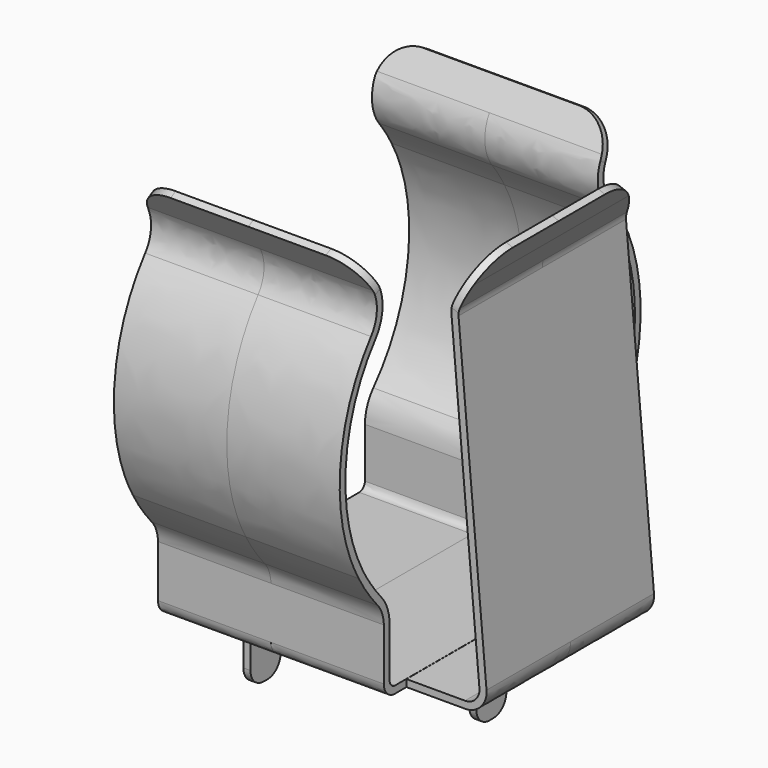
from build123d import *

# Parameters (mm, degrees)
PAD_DEPTH            = 4.8
FILLET_R             = 1.5
SKETCH002_W          = 1.6
SKETCH002_H          = 0.3
PAD001_DEPTH         = 3
PAD002_DEPTH         = 4.45
FILLET001_R          = 0.7
FILLET002_R          = 2
BODY_PLACEMENT_ANGLE = 90


with BuildPart() as part:
    # Sketch001 → Pad (new body, symmetric)
    with BuildSketch(Plane.XZ):
        with BuildLine():
            add(Edge.make_bspline(
                [(-6.09158, 13.6975), (-8.13123, 11.1514), (-8.2306, 7.29343), (-6.34886, 4.63303)],
                knots=[0, 0, 0, 0, 1, 1, 1, 1], degree=3))
            add(Edge.make_bspline(
                [(-6.09158, 13.6975), (-5.64917, 14.2679), (-5.59151, 15.0812), (-5.96089, 15.7037)],
                knots=[0, 0, 0, 0, 1, 1, 1, 1], degree=3))
            add(Edge.make_bspline(
                [(-5.96089, 15.7037), (-6.17001, 16.0675), (-6.37913, 16.4313), (-6.58825, 16.7951)],
                knots=[0, 0, 0, 0, 1, 1, 1, 1], degree=3))
            add(Edge.make_bspline(
                [(-6.58825, 16.7951), (-6.67539, 16.745), (-6.76252, 16.6949), (-6.84965, 16.6448)],
                knots=[0, 0, 0, 0, 1, 1, 1, 1], degree=3))
            add(Edge.make_bspline(
                [(-6.84965, 16.6448), (-6.63835, 16.281), (-6.42705, 15.9172), (-6.21575, 15.5534)],
                knots=[0, 0, 0, 0, 1, 1, 1, 1], degree=3))
            add(Edge.make_bspline(
                [(-6.33338, 13.887), (-5.95887, 14.3555), (-5.9205, 15.035), (-6.21575, 15.5534)],
                knots=[0, 0, 0, 0, 1, 1, 1, 1], degree=3))
            add(Edge.make_bspline(
                [(-6.33338, 13.887), (-8.27016, 11.4263), (-8.54971, 7.81445), (-6.98642, 5.09652)],
                knots=[0, 0, 0, 0, 1, 1, 1, 1], degree=3))
            add(Edge.make_bspline(
                [(-6.98642, 5.09652), (-6.70676, 4.5864), (-6.35671, 4.12124), (-5.98048, 3.67924)],
                knots=[0, 0, 0, 0, 1, 1, 1, 1], degree=3))
            add(Edge.make_bspline(
                [(-5.6472, 2.81007), (-5.66286, 3.12607), (-5.76509, 3.4421), (-5.98048, 3.67924)],
                knots=[0, 0, 0, 0, 1, 1, 1, 1], degree=3))
            add(Edge.make_bspline(
                [(-5.6472, 0.60123), (-5.6472, 1.33751), (-5.6472, 2.07379), (-5.6472, 2.81007)],
                knots=[0, 0, 0, 0, 1, 1, 1, 1], degree=3))
            add(Edge.make_bspline(
                [(-5.6472, 0.60123), (-5.65989, 0.27566), (-5.37633, -0.002662), (-5.05255, -3e-05)],
                knots=[0, 0, 0, 0, 1, 1, 1, 1], degree=3))
            add(Edge.make_bspline(
                [(-5.05255, -3e-05), (-3.66054, 0), (-2.26858, 0), (-0.87661, 0)],
                knots=[0, 0, 0, 0, 1, 1, 1, 1], degree=3))
            add(Edge.make_bspline(
                [(-0.87661, 0), (1.09915, 0), (3.07492, 0), (5.05068, 0)],
                knots=[0, 0, 0, 0, 1, 1, 1, 1], degree=3))
            add(Edge.make_bspline(
                [(5.05068, 0), (5.37898, 0.000521), (5.65118, 0.271974), (5.6519, 0.60126)],
                knots=[0, 0, 0, 0, 1, 1, 1, 1], degree=3))
            add(Edge.make_bspline(
                [(5.6519, 0.60126), (5.65191, 1.33751), (5.65191, 2.07379), (5.6519, 2.81007)],
                knots=[0, 0, 0, 0, 1, 1, 1, 1], degree=3))
            add(Edge.make_bspline(
                [(5.97865, 3.67924), (5.76643, 3.44236), (5.65459, 3.12669), (5.6519, 2.81007)],
                knots=[0, 0, 0, 0, 1, 1, 1, 1], degree=3))
            add(Edge.make_bspline(
                [(5.97865, 3.67924), (8.20449, 6.11255), (8.64287, 9.95798), (7.02064, 12.8297)],
                knots=[0, 0, 0, 0, 1, 1, 1, 1], degree=3))
            add(Edge.make_bspline(
                [(7.02064, 12.8297), (6.82246, 13.2022), (6.58331, 13.5493), (6.33155, 13.887)],
                knots=[0, 0, 0, 0, 1, 1, 1, 1], degree=3))
            add(Edge.make_bspline(
                [(6.22045, 15.5534), (5.91365, 15.0404), (5.96147, 14.3557), (6.33155, 13.887)],
                knots=[0, 0, 0, 0, 1, 1, 1, 1], degree=3))
            add(Edge.make_bspline(
                [(6.84782, 16.6448), (6.63869, 16.281), (6.42957, 15.9172), (6.22045, 15.5534)],
                knots=[0, 0, 0, 0, 1, 1, 1, 1], degree=3))
            add(Edge.make_bspline(
                [(6.59295, 16.7951), (6.6779, 16.745), (6.76286, 16.6949), (6.84782, 16.6448)],
                knots=[0, 0, 0, 0, 1, 1, 1, 1], degree=3))
            add(Edge.make_bspline(
                [(5.95905, 15.7037), (6.17035, 16.0675), (6.38165, 16.4313), (6.59295, 16.7951)],
                knots=[0, 0, 0, 0, 1, 1, 1, 1], degree=3))
            add(Edge.make_bspline(
                [(5.95905, 15.7037), (5.58849, 15.0863), (5.65793, 14.2664), (6.08975, 13.6975)],
                knots=[0, 0, 0, 0, 1, 1, 1, 1], degree=3))
            add(Edge.make_bspline(
                [(6.75901, 12.6796), (6.56783, 13.0394), (6.33665, 13.3742), (6.08975, 13.6975)],
                knots=[0, 0, 0, 0, 1, 1, 1, 1], degree=3))
            add(Edge.make_bspline(
                [(5.78914, 3.9145), (7.89948, 6.25846), (8.30928, 9.93114), (6.75901, 12.6796)],
                knots=[0, 0, 0, 0, 1, 1, 1, 1], degree=3))
            add(Edge.make_bspline(
                [(5.78914, 3.9145), (5.50678, 3.58738), (5.34949, 3.1634), (5.34475, 2.73165)],
                knots=[0, 0, 0, 0, 1, 1, 1, 1], degree=3))
            add(Edge.make_bspline(
                [(5.34475, 0.60175), (5.34476, 1.31137), (5.34476, 2.02151), (5.34475, 2.73165)],
                knots=[0, 0, 0, 0, 1, 1, 1, 1], degree=3))
            add(Edge.make_bspline(
                [(5.04414, 0.30715), (5.20535, 0.301179), (5.33817, 0.445247), (5.34475, 0.60175)],
                knots=[0, 0, 0, 0, 1, 1, 1, 1], degree=3))
            add(Edge.make_bspline(
                [(-5.04597, 0.30663), (-1.6826, 0.30715), (1.68077, 0.30715), (5.04414, 0.30715)],
                knots=[0, 0, 0, 0, 1, 1, 1, 1], degree=3))
            add(Edge.make_bspline(
                [(-5.34659, 0.60123), (-5.33368, 0.447888), (-5.20904, 0.298696), (-5.04597, 0.30663)],
                knots=[0, 0, 0, 0, 1, 1, 1, 1], degree=3))
            add(Edge.make_bspline(
                [(-5.34659, 0.60123), (-5.34659, 1.31137), (-5.34659, 2.02151), (-5.34659, 2.73165)],
                knots=[0, 0, 0, 0, 1, 1, 1, 1], degree=3))
            add(Edge.make_bspline(
                [(-5.34659, 2.73165), (-5.34959, 3.1662), (-5.50536, 3.58615), (-5.79097, 3.9145)],
                knots=[0, 0, 0, 0, 1, 1, 1, 1], degree=3))
            add(Edge.make_bspline(
                [(-6.34886, 4.63303), (-6.18103, 4.37957), (-5.98482, 4.14789), (-5.79097, 3.9145)],
                knots=[0, 0, 0, 0, 1, 1, 1, 1], degree=3))
        make_face()
    extrude(amount=PAD_DEPTH, both=True)

    # Fillet
    fillet_edges = [part.edges().sort_by_distance(p)[0] for p in [
        (-6.718951, -4.8, 16.719952),
        (-6.718951, 4.8, 16.719952),
        (6.720384, -4.8, 16.719948),
        (6.720384, 4.8, 16.719948),
    ]]
    fillet(fillet_edges, radius=FILLET_R)

    # Sketch002 → Pad001 (join)
    with BuildSketch(Plane.XY):
        with Locations((0, -4.7)):
            Rectangle(SKETCH002_W, SKETCH002_H)
        with Locations((2.5, 2.9)):
            Rectangle(SKETCH002_W, SKETCH002_H)
        with Locations((-2.5, 2.9)):
            Rectangle(SKETCH002_W, SKETCH002_H)
    extrude(amount=-PAD001_DEPTH)

    # Sketch → Pad002 (join, symmetric)
    with BuildSketch(Plane(origin=(0, -4.8, 0), x_dir=(0, -1, 0), z_dir=(-1, 0, 0))):
        with BuildLine():
            add(Edge.make_bspline(
                [(2.59442, 15.749475), (2.2546, 14.893383)],
                knots=[0, 0, 0.921071, 0.921071], degree=1))
            add(Edge.make_bspline(
                [(2.2546, 14.893383), (2.22653, 14.800953), (2.21431, 14.708896), (2.2149, 14.612376)],
                knots=[0, 0, 0, 0, 1, 1, 1, 1], degree=3))
            add(Edge.make_bspline(
                [(2.2149, 14.612376), (3.40477, 0.99331)],
                knots=[0, 0, 13.670945, 13.670945], degree=1))
            add(Edge.make_bspline(
                [(3.40477, 0.99331), (3.458352, 0.476328), (3.009946, -0.014013), (2.48986, 0)],
                knots=[0, 0, 0, 0, 1, 1, 1, 1], degree=3))
            add(Edge.make_bspline(
                [(2.48986, 0), (0, 0)],
                knots=[0, 0, 2.48986, 2.48986], degree=1))
            add(Edge.make_bspline(
                [(0, 0), (0, 0.300612)],
                knots=[0, 0, 0.300612, 0.300612], degree=1))
            add(Edge.make_bspline(
                [(0, 0.300612), (2.48986, 0.300612)],
                knots=[0, 0, 2.48986, 2.48986], degree=1))
            add(Edge.make_bspline(
                [(2.48986, 0.300612), (2.846436, 0.297222), (3.13545, 0.612119), (3.10415, 0.967187)],
                knots=[0, 0, 0, 0, 1, 1, 1, 1], degree=3))
            add(Edge.make_bspline(
                [(3.10415, 0.967187), (2.58135, 6.92062)],
                knots=[0, 0, 5.976344, 5.976344], degree=1))
            add(Edge.make_bspline(
                [(2.58135, 6.92062), (2.11083, 12.325108)],
                knots=[0, 0, 5.424931, 5.424931], degree=1))
            add(Edge.make_bspline(
                [(2.11083, 12.325108), (1.915035, 14.586236)],
                knots=[0, 0, 2.269589, 2.269589], degree=1))
            add(Edge.make_bspline(
                [(1.915035, 14.586236), (1.89725, 14.729375), (1.919075, 14.871385), (1.97359, 15.004479)],
                knots=[0, 0, 0, 0, 1, 1, 1, 1], degree=3))
            add(Edge.make_bspline(
                [(1.97359, 15.004479), (2.30688, 15.860571)],
                knots=[0, 0, 0.918682, 0.918682], degree=1))
            add(Edge.make_bspline(
                [(2.30688, 15.860571), (2.63363, 16.697057)],
                knots=[0, 0, 0.898039, 0.898039], degree=1))
            add(Edge.make_bspline(
                [(2.63363, 16.697057), (2.72948, 16.660027), (2.825323, 16.622997), (2.92117, 16.585962)],
                knots=[0, 0, 0, 0, 1, 1, 1, 1], degree=3))
            add(Edge.make_bspline(
                [(2.92117, 16.585962), (2.59442, 15.749475)],
                knots=[0, 0, 0.89804, 0.89804], degree=1))
        make_face()
    extrude(amount=PAD002_DEPTH, both=True)

    # Fillet001
    fillet001_edges = [part.edges().sort_by_distance(p)[0] for p in [
        (3.3, 2.9, -3),
        (1.7, 2.9, -3),
        (-1.7, 2.9, -3),
        (-3.3, 2.9, -3),
        (0.8, -4.7, -3),
        (-0.8, -4.7, -3),
    ]]
    fillet(fillet001_edges, radius=FILLET001_R)

    # Fillet002
    fillet002_edges = [part.edges().sort_by_distance(p)[0] for p in [
        (-4.45, -7.577401, 16.641512),
        (4.45, -7.577401, 16.641512),
    ]]
    fillet(fillet002_edges, radius=FILLET002_R)


with BuildPart() as part_1:
    # Body placement: moved
    add(part.part.moved(Location((-1.704469, -1.704436, 0))).rotate(Axis((-1.704469, -1.704436, 0), (0, 0, 1)), BODY_PLACEMENT_ANGLE))


solid = part_1.part
